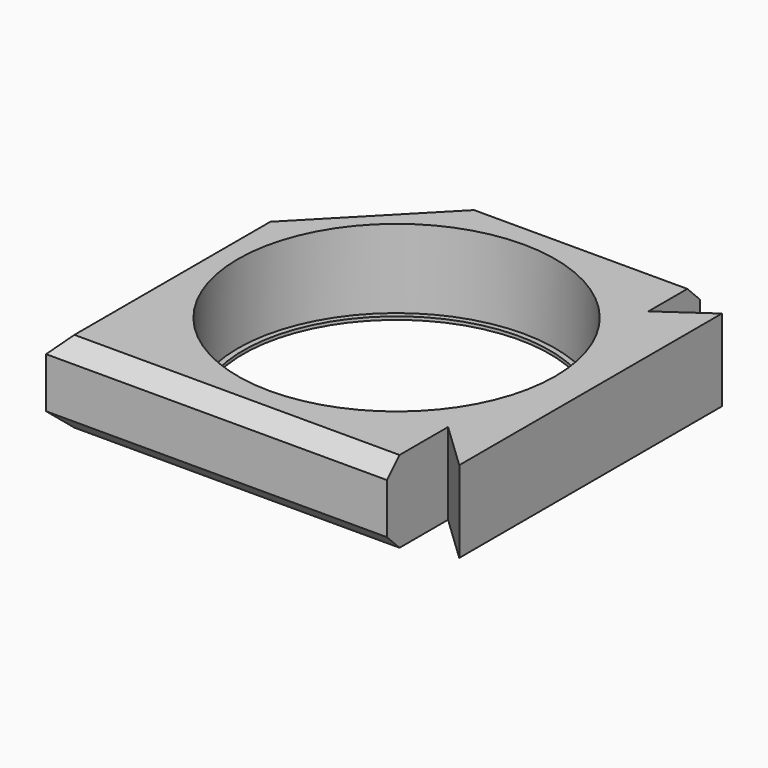
from build123d import *

# Parameters (mm, degrees)
F0_R     = 10.1
F1_DEPTH = 5
F0_R_2   = 9.75
F2_DEPTH = 0.2
F3_SIZE  = 1


with BuildPart() as f1:
    # F0 (on Top) → F1 (new body)
    with BuildSketch(Plane.XY):
        Polygon((-16.0227272727, -12.5188677256), (5.6772727273, -12.5188677256), (5.6772727273, -7.6613227439), (8.6772727273, -10.5188677256), (8.6772727273, 10.3811322744), (5.6772727273, 8.2811322744), (5.6772727273, 12.3811322744), (-8.3227272727, 12.3811322744), (-16.0227272727, 4.4811322744), align=None)
        with Locations((-3.6727272727, -0.0688677256)):
            Circle(F0_R, mode=Mode.SUBTRACT)
    extrude(amount=F1_DEPTH)

    # F0 (on Top) → F2 (join)
    with BuildSketch(Plane.XY):
        Polygon((-16.0227272727, -12.5188677256), (5.6772727273, -12.5188677256), (5.6772727273, -7.6613227439), (8.6772727273, -10.5188677256), (8.6772727273, 10.3811322744), (5.6772727273, 8.2811322744), (5.6772727273, 12.3811322744), (-8.3227272727, 12.3811322744), (-16.0227272727, 4.4811322744), align=None)
        with Locations((-3.6727272727, -0.0688677256)):
            Circle(F0_R, mode=Mode.SUBTRACT)
        with Locations((-3.6727272727, -0.0688677256)):
            Circle(F0_R)
        with Locations((-3.6727272727, -0.0688677256)):
            Circle(F0_R_2, mode=Mode.SUBTRACT)
    extrude(amount=-F2_DEPTH)

    # F3
    f3_edges = [f1.edges().sort_by_distance(p)[0] for p in [
        (-5.172727, -12.518868, 5),
        (-16.022727, -4.018868, 5),
        (-12.172727, 8.431132, 5),
        (-1.322727, 12.381132, 5),
        (-1.322727, 12.381132, -0.2),
        (-12.172727, 8.431132, -0.2),
        (-16.022727, -4.018868, -0.2),
        (-5.172727, -12.518868, -0.2),
    ]]
    chamfer(f3_edges, length=F3_SIZE)


solid = f1.part
